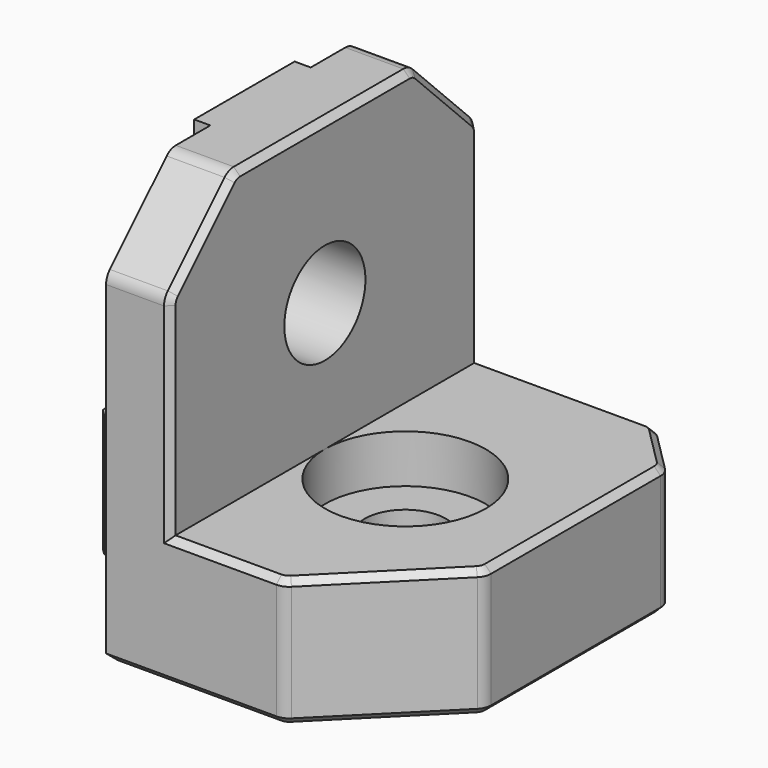
from build123d import *

# Parameters (mm, degrees)
CYLINDER014_R     = 3.15
CYLINDER014_DEPTH = 15
BOX016_W          = 4
BOX016_H          = 24
BOX016_DEPTH      = 26
CHAMFER024_SIZE   = 5
FILLET006_R       = 1
CHAMFER025_SIZE   = 0.4
CYLINDER012_R     = 2.525
CYLINDER012_DEPTH = 35
CYLINDER013_R     = 5
CYLINDER013_DEPTH = 5
BOX018_W          = 18
BOX018_H          = 24
BOX018_DEPTH      = 8
CHAMFER021_SIZE   = 7
CHAMFER022_SIZE   = 3
FILLET005_R       = 1
CHAMFER023_SIZE   = 0.4
BOX019_W          = 2
BOX019_H          = 7.8
BOX019_DEPTH      = 18
BOX017_W          = 8
BOX017_H          = 7.8
BOX017_DEPTH      = 8
CHAMFER026_SIZE   = 0.4


with BuildPart() as cylinder014:
    # Cylinder014 → Cylinder014 (new body)
    with BuildSketch(Plane(origin=(9, 15, 56), x_dir=(0, -1, 0), z_dir=(-1, 0, 0))):
        Circle(CYLINDER014_R)
    extrude(amount=CYLINDER014_DEPTH)


with BuildPart() as chamfer025:
    # Box016 → Box016 (new body)
    with BuildSketch(Plane(origin=(0, 3, 40), x_dir=(1, 0, 0), z_dir=(0, 0, 1))):
        with Locations((2, 12)):
            Rectangle(BOX016_W, BOX016_H)
    extrude(amount=BOX016_DEPTH)

    # Chamfer024
    chamfer024_edges = [chamfer025.edges().sort_by_distance(p)[0] for p in [
        (2, 3, 66),
        (2, 27, 66),
    ]]
    chamfer(chamfer024_edges, length=CHAMFER024_SIZE)

    # Fillet006
    fillet006_edges = [chamfer025.edges().sort_by_distance(p)[0] for p in [
        (2, 3, 61),
        (2, 8, 66),
        (2, 22, 66),
        (2, 27, 61),
    ]]
    fillet(fillet006_edges, radius=FILLET006_R)

    # Chamfer025
    chamfer025_edges = [chamfer025.edges().sort_by_distance(p)[0] for p in [
        (0, 15, 40),
        (4, 3, 50.292893),
        (2, 3, 40),
        (4, 3.07612, 60.96847),
        (2, 27, 40),
        (4, 15, 40),
        (4, 5.5, 63.5),
        (4, 27, 50.292893),
        (4, 8.03153, 65.92388),
        (4, 26.92388, 60.96847),
        (4, 15, 66),
        (4, 24.5, 63.5),
        (4, 21.96847, 65.92388),
    ]]
    chamfer(chamfer025_edges, length=CHAMFER025_SIZE)


with BuildPart() as cylinder012:
    # Cylinder012 → Cylinder012 (new body)
    with BuildSketch(Plane(origin=(9, 15, 32.7), x_dir=(1, 0, 0), z_dir=(0, 0, 1))):
        Circle(CYLINDER012_R)
    extrude(amount=CYLINDER012_DEPTH)


with BuildPart() as cylinder013:
    # Cylinder013 → Cylinder013 (new body)
    with BuildSketch(Plane(origin=(9, 15, 45), x_dir=(1, 0, 0), z_dir=(0, 0, 1))):
        Circle(CYLINDER013_R)
    extrude(amount=CYLINDER013_DEPTH)


with BuildPart() as cut002002002007004003:
    # Box018 → Box018 (new body)
    with BuildSketch(Plane(origin=(0, 3, 40), x_dir=(1, 0, 0), z_dir=(0, 0, 1))):
        with Locations((9, 12)):
            Rectangle(BOX018_W, BOX018_H)
    extrude(amount=BOX018_DEPTH)

    # Chamfer021
    chamfer021_edges = [cut002002002007004003.edges().sort_by_distance(p)[0] for p in [
        (18, 3, 44),
    ]]
    chamfer(chamfer021_edges, length=CHAMFER021_SIZE)

    # Chamfer022
    chamfer022_edges = [cut002002002007004003.edges().sort_by_distance(p)[0] for p in [
        (18, 27, 44),
    ]]
    chamfer(chamfer022_edges, length=CHAMFER022_SIZE)

    # Fillet005
    fillet005_edges = [cut002002002007004003.edges().sort_by_distance(p)[0] for p in [
        (18, 10, 44),
        (18, 24, 44),
        (15, 27, 44),
        (11, 3, 44),
    ]]
    fillet(fillet005_edges, radius=FILLET005_R)

    # Chamfer023
    chamfer023_edges = [cut002002002007004003.edges().sort_by_distance(p)[0] for p in [
        (18, 17, 48),
        (18, 17, 40),
        (17.92388, 23.96847, 48),
        (16.5, 25.5, 48),
        (14.96847, 26.92388, 48),
        (7.292893, 27, 48),
        (0, 15, 48),
        (5.292893, 3, 48),
        (10.96847, 3.07612, 48),
        (14.5, 6.5, 48),
        (17.92388, 10.03153, 48),
        (17.92388, 10.03153, 40),
        (17.92388, 23.96847, 40),
        (16.5, 25.5, 40),
        (14.96847, 26.92388, 40),
        (7.292893, 27, 40),
        (0, 15, 40),
        (5.292893, 3, 40),
        (10.96847, 3.07612, 40),
        (14.5, 6.5, 40),
    ]]
    chamfer(chamfer023_edges, length=CHAMFER023_SIZE)

    # Cut002002002007004002: cut Cylinder013
    add(cylinder013.part, mode=Mode.SUBTRACT)

    # Cut002002002007004003: cut Cylinder012
    add(cylinder012.part, mode=Mode.SUBTRACT)


with BuildPart() as cube019:
    # Box019 → Box019 (new body)
    with BuildSketch(Plane(origin=(-1, 11.1, 48), x_dir=(1, 0, 0), z_dir=(0, 0, 1))):
        with Locations((1, 3.9)):
            Rectangle(BOX019_W, BOX019_H)
    extrude(amount=BOX019_DEPTH)


with BuildPart() as obj1:
    # Box017 → Box017 (new body)
    with BuildSketch(Plane(origin=(-7, 11.1, 40), x_dir=(1, 0, 0), z_dir=(0, 0, 1))):
        with Locations((4, 3.9)):
            Rectangle(BOX017_W, BOX017_H)
    extrude(amount=BOX017_DEPTH)

    # Chamfer026
    chamfer026_edges = [obj1.edges().sort_by_distance(p)[0] for p in [
        (-7, 11.1, 44),
        (-7, 18.9, 44),
        (-7, 15, 40),
        (-3, 11.1, 40),
        (-3, 18.9, 40),
    ]]
    chamfer(chamfer026_edges, length=CHAMFER026_SIZE)

    # Fusion006005: union Chamfer025, Cut002002002007004003, Cube019
    add(chamfer025.part)
    add(cut002002002007004003.part)
    add(cube019.part)

    # Cut002002002007004004: cut Cylinder014
    add(cylinder014.part, mode=Mode.SUBTRACT)


solid = obj1.part
